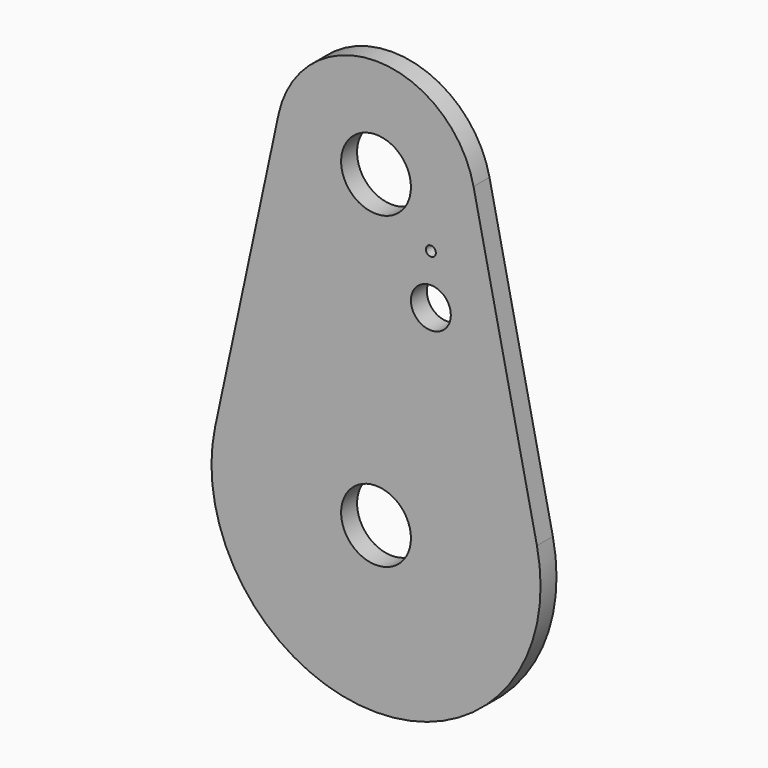
from build123d import *

# Parameters (mm, degrees)
F0_R     = 7
F0_R_2   = 4
F0_R_3   = 1
F1_DEPTH = 4


with BuildPart() as f1:
    # F0 (on Front) → F1 (new body)
    with BuildSketch(Plane.XZ):
        with BuildLine():
            ThreePointArc((19.555412, 66.193548), (0, 82), (-19.555412, 66.193548))
            Line((-19.555412, 66.193548), (-32.26643, 6.919355))
            ThreePointArc((-32.26643, 6.919355), (0, -33), (32.26643, 6.919355))
            Line((32.26643, 6.919355), (19.555412, 66.193548))
        make_face()
        Circle(F0_R, mode=Mode.SUBTRACT)
        with Locations((11, 42)):
            Circle(F0_R_2, mode=Mode.SUBTRACT)
        with Locations((11, 52)):
            Circle(F0_R_3, mode=Mode.SUBTRACT)
        with Locations((0, 62)):
            Circle(F0_R, mode=Mode.SUBTRACT)
    extrude(amount=F1_DEPTH)


solid = f1.part
